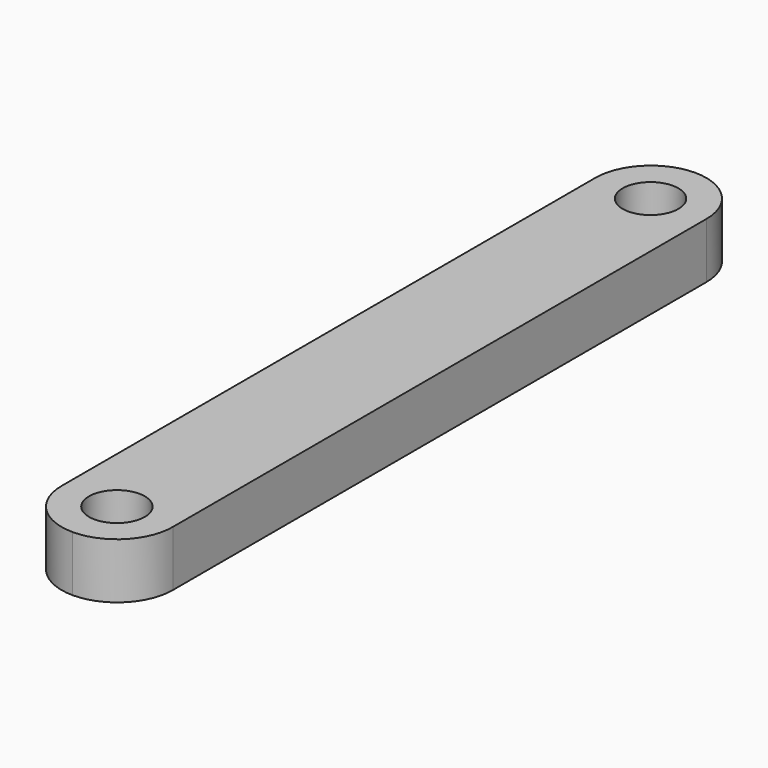
from build123d import *

# Parameters (mm, degrees)
F0_R     = 3.1877
F1_DEPTH = 6.35


with BuildPart() as f1:
    # F0 (on Top) → F1 (new body)
    with BuildSketch(Plane.XY):
        with BuildLine():
            Line((6.35, -38.1), (6.35, 38.1))
            ThreePointArc((6.35, 38.1), (4.490128, 42.590128), (0, 44.45))
            ThreePointArc((0, 44.45), (-4.490128, 42.590128), (-6.35, 38.1))
            Line((-6.35, 38.1), (-6.35, -38.1))
            ThreePointArc((-6.35, -38.1), (-4.490128, -42.590128), (0, -44.45))
            ThreePointArc((0, -44.45), (4.490128, -42.590128), (6.35, -38.1))
        make_face()
        with Locations((0, -38.137442)):
            Circle(F0_R, mode=Mode.SUBTRACT)
        with Locations((0, 38.062558)):
            Circle(F0_R, mode=Mode.SUBTRACT)
    extrude(amount=F1_DEPTH)


solid = f1.part
